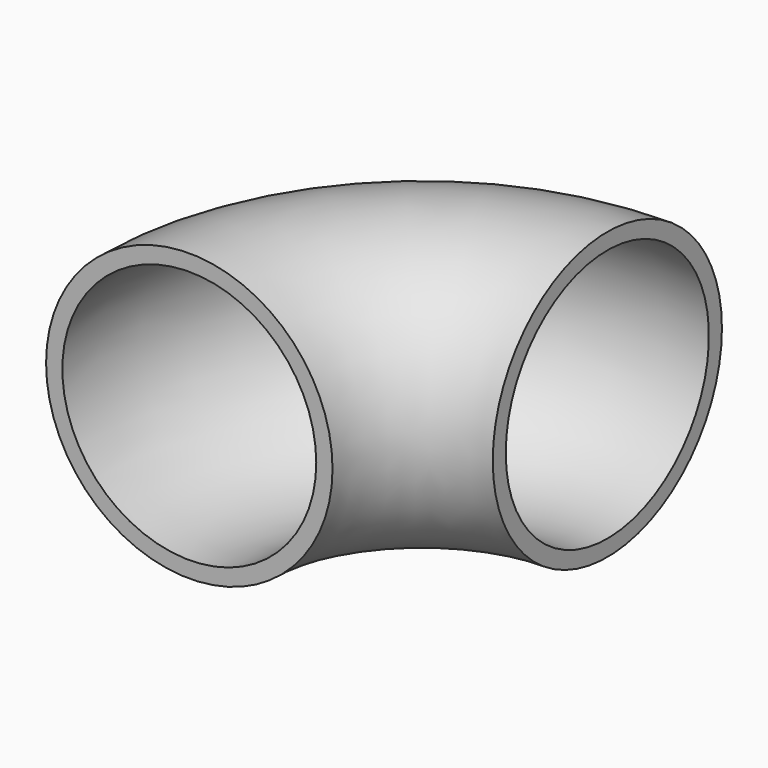
from build123d import *

# Parameters (mm, degrees)
F1_R   = 23.495
F1_R_2 = 20.828


with BuildPart() as f2:
    # F2: sweep along a path in F0
    with BuildLine(Plane.XY) as f2_path:
        ThreePointArc((0, 38.1), (-26.940768, 26.940768), (-38.1, 0))
    # F1 (on Front) → F2 (sweep)
    with BuildSketch(Plane.XZ):
        with Locations((-38.1, 0)):
            Circle(F1_R)
        with Locations((-38.1, 0)):
            Circle(F1_R_2, mode=Mode.SUBTRACT)
    sweep(path=f2_path.line)


solid = f2.part
